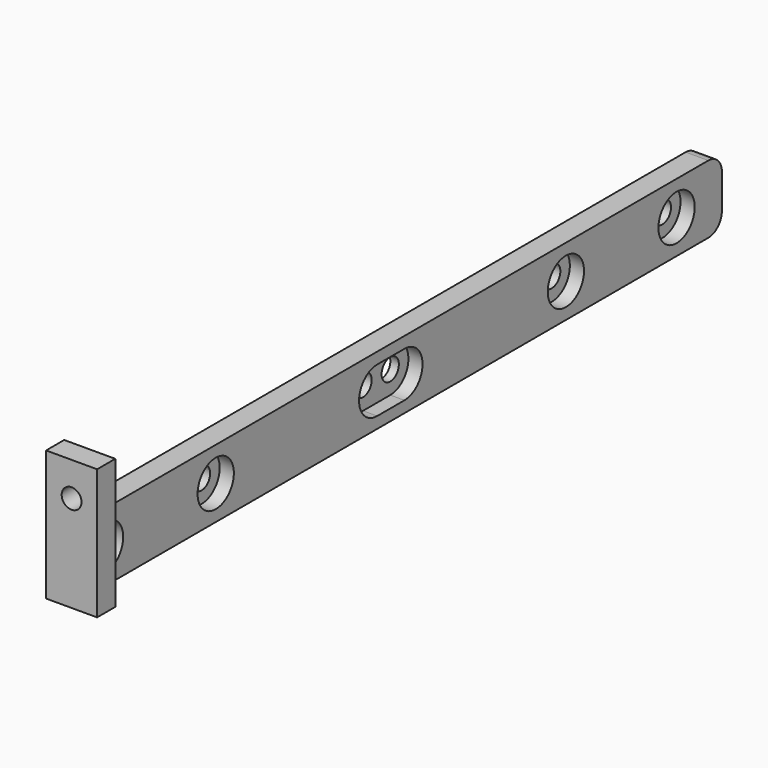
from build123d import *

# Parameters (mm, degrees)
SKETCH050_W             = 144
SKETCH050_H             = 12
SKETCH050_R             = 1.9
PAD014_DEPTH            = 4
SKETCH051_R             = 4
POCKET036_DEPTH         = 2.5
FILLET012_R             = 3
SKETCH052_W             = 23
SKETCH052_H             = 9
SKETCH052_R             = 1.75
PAD015_DEPTH            = 4
BODY012_PLACEMENT_ANGLE = 270


with BuildPart() as obj1:
    # Sketch050 → Pad014 (new body)
    with BuildSketch(Plane.XZ):
        with Locations((-68, 6)):
            Rectangle(SKETCH050_W, SKETCH050_H)
        with Locations((-66, 6)):
            Circle(SKETCH050_R, mode=Mode.SUBTRACT)
        with Locations((-6, 6)):
            Circle(SKETCH050_R, mode=Mode.SUBTRACT)
        with Locations((-107.6, 6)):
            Circle(SKETCH050_R, mode=Mode.SUBTRACT)
        with Locations((-30.4, 6)):
            Circle(SKETCH050_R, mode=Mode.SUBTRACT)
        with Locations((-72, 6)):
            Circle(SKETCH050_R, mode=Mode.SUBTRACT)
        with Locations((-132, 6)):
            Circle(SKETCH050_R, mode=Mode.SUBTRACT)
    extrude(amount=PAD014_DEPTH)

    # Sketch051 (on Face11 of Pad014) → Pocket036 (cut)
    with BuildSketch(Plane(origin=(0, 0, 0), x_dir=(1, 0, 0), z_dir=(0, 1, 0))):
        with Locations((-107.6, -6)):
            Circle(SKETCH051_R)
        with Locations((-6, -6)):
            Circle(SKETCH051_R)
        with Locations((-30.4, -6)):
            Circle(SKETCH051_R)
        with Locations((-132, -6)):
            Circle(SKETCH051_R)
        with BuildLine():
            ThreePointArc((-72, -2), (-76, -6), (-72, -10))
            Line((-72, -10), (-66, -10))
            ThreePointArc((-66, -10), (-62, -6), (-66, -2))
            Line((-72, -2), (-66, -2))
        make_face()
    extrude(amount=-POCKET036_DEPTH, mode=Mode.SUBTRACT)

    # Fillet012
    fillet012_edges = [obj1.edges().sort_by_distance(p)[0] for p in [
        (4, -2, 12),
        (4, -2, 0),
    ]]
    fillet(fillet012_edges, radius=FILLET012_R)

    # Sketch052 (on Face4 of Fillet012) → Pad015 (join)
    with BuildSketch(Plane(origin=(-140, 0, 0), x_dir=(0, 0, -1), z_dir=(-1, 0, 0))):
        with Locations((-11.5, -0.5)):
            Rectangle(SKETCH052_W, SKETCH052_H)
        with Locations((-17, -0.5)):
            Circle(SKETCH052_R, mode=Mode.SUBTRACT)
    extrude(amount=-PAD015_DEPTH)


with BuildPart() as obj1_1:
    # Body012 placement: moved
    add(obj1.part.moved(Location((8.5, 121, 8))).rotate(Axis((8.5, 121, 8), (0, 0, -1)), BODY012_PLACEMENT_ANGLE))


with BuildPart() as obj1_mirrored:
    # Mirror001: instance of obj1
    add(obj1_1.part.mirror(Plane(origin=(3.1926938796, 78.5247560814, 0), x_dir=(0, 1, 0), z_dir=(-1, 0, 0))))


with BuildPart() as obj1_mirrored_1:
    # Mirror001 placement: moved
    add(obj1_mirrored.part.moved(Location((120.8, 0, 0))))


solid = obj1_mirrored_1.part
